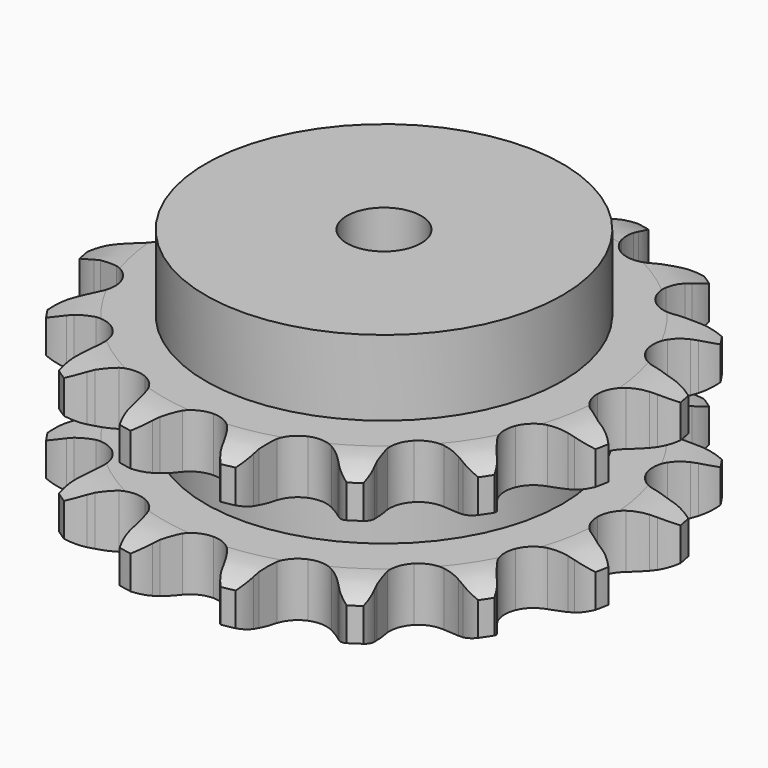
from build123d import *

# Parameters (mm, degrees)
PAD_DEPTH         = 54.6
SKETCH001_R       = 60
PAD001_DEPTH      = 80
SKETCH002_R       = 12.5
POCKET_DEPTH      = 0.001
POCKET_DEPTH_BACK = 80.001


with BuildPart() as part:
    # Sprocket → Pad (new body)
    with BuildSketch(Plane.XY):
        with BuildLine():
            ThreePointArc((-17.844835, 89.712045), (-14.229577, 86.66832), (-11.669376, 82.69595))
            Line((-11.669376, 82.69595), (-10.772508, 80.704978))
            ThreePointArc((-10.772508, 80.704978), (-9.303287, 77.927171), (-7.495255, 75.356987))
            ThreePointArc((-7.495255, 75.356987), (-4.156439, 72.707114), (0, 71.76184))
            ThreePointArc((0, 71.76184), (4.156439, 72.707114), (7.495255, 75.356987))
            ThreePointArc((7.495255, 75.356987), (9.303287, 77.927171), (10.772508, 80.704978))
            Line((10.772508, 80.704978), (11.669376, 82.69595))
            ThreePointArc((11.669376, 82.69595), (14.229577, 86.66832), (17.844835, 89.712045))
            ThreePointArc((17.844835, 89.712045), (20.020115, 85.51651), (20.865273, 80.866773))
            Line((20.865273, 80.866773), (20.931958, 78.684138))
            ThreePointArc((20.931958, 78.684138), (21.226321, 75.555532), (21.913158, 72.489088))
            ThreePointArc((21.913158, 72.489088), (23.983759, 68.763215), (27.462067, 66.299296))
            ThreePointArc((27.462067, 66.299296), (31.663857, 65.582014), (35.762583, 66.752468))
            Line((35.762583, 66.752468), (40.836958, 70.439217))
            ThreePointArc((40.836958, 70.439217), (41.615771, 71.204796), (42.427468, 71.935419))
            ThreePointArc((42.427468, 71.935419), (46.312945, 74.625664), (50.817791, 76.054199))
            ThreePointArc((50.817791, 76.054199), (51.221926, 71.345587), (50.223372, 66.726362))
            Line((50.223372, 66.726362), (49.449724, 64.684351))
            ThreePointArc((49.449724, 64.684351), (48.524414, 61.681248), (47.985491, 58.585382))
            ThreePointArc((47.985491, 58.585382), (48.472647, 54.350739), (50.743284, 50.743284))
            ThreePointArc((50.743284, 50.743284), (54.350739, 48.472647), (58.585382, 47.985491))
            Line((58.585382, 47.985491), (64.684351, 49.449724))
            ThreePointArc((64.684351, 49.449724), (65.696855, 49.858988), (66.726362, 50.223372))
            ThreePointArc((66.726362, 50.223372), (71.345587, 51.221926), (76.054199, 50.817791))
            ThreePointArc((76.054199, 50.817791), (74.625664, 46.312945), (71.935419, 42.427468))
            Line((71.935419, 42.427468), (70.439217, 40.836958))
            ThreePointArc((70.439217, 40.836958), (68.435105, 38.416553), (66.752468, 35.762583))
            ThreePointArc((66.752468, 35.762583), (65.582014, 31.663857), (66.299296, 27.462067))
            ThreePointArc((66.299296, 27.462067), (68.763215, 23.983759), (72.489088, 21.913158))
            Line((72.489088, 21.913158), (78.684138, 20.931958))
            ThreePointArc((78.684138, 20.931958), (79.776188, 20.922601), (80.866773, 20.865273))
            ThreePointArc((80.866773, 20.865273), (85.51651, 20.020115), (89.712045, 17.844835))
            ThreePointArc((89.712045, 17.844835), (86.66832, 14.229577), (82.69595, 11.669376))
            Line((82.69595, 11.669376), (80.704978, 10.772508))
            ThreePointArc((80.704978, 10.772508), (77.927171, 9.303287), (75.356987, 7.495255))
            ThreePointArc((75.356987, 7.495255), (72.707114, 4.156439), (71.76184, 0))
            ThreePointArc((71.76184, 0), (72.707114, -4.156439), (75.356987, -7.495255))
            Line((75.356987, -7.495255), (80.704978, -10.772508))
            ThreePointArc((80.704978, -10.772508), (81.71032, -11.199063), (82.69595, -11.669376))
            ThreePointArc((82.69595, -11.669376), (86.66832, -14.229577), (89.712045, -17.844835))
            ThreePointArc((89.712045, -17.844835), (85.51651, -20.020115), (80.866773, -20.865273))
            Line((80.866773, -20.865273), (78.684138, -20.931958))
            ThreePointArc((78.684138, -20.931958), (75.555532, -21.226321), (72.489088, -21.913158))
            ThreePointArc((72.489088, -21.913158), (68.763215, -23.983759), (66.299296, -27.462067))
            ThreePointArc((66.299296, -27.462067), (65.582014, -31.663857), (66.752468, -35.762583))
            Line((66.752468, -35.762583), (70.439217, -40.836958))
            ThreePointArc((70.439217, -40.836958), (71.204796, -41.615771), (71.935419, -42.427468))
            ThreePointArc((71.935419, -42.427468), (74.625664, -46.312945), (76.054199, -50.817791))
            ThreePointArc((76.054199, -50.817791), (71.345587, -51.221926), (66.726362, -50.223372))
            Line((66.726362, -50.223372), (64.684351, -49.449724))
            ThreePointArc((64.684351, -49.449724), (61.681248, -48.524414), (58.585382, -47.985491))
            ThreePointArc((58.585382, -47.985491), (54.350739, -48.472647), (50.743284, -50.743284))
            ThreePointArc((50.743284, -50.743284), (48.472647, -54.350739), (47.985491, -58.585382))
            Line((47.985491, -58.585382), (49.449724, -64.684351))
            ThreePointArc((49.449724, -64.684351), (49.858988, -65.696855), (50.223372, -66.726362))
            ThreePointArc((50.223372, -66.726362), (51.221926, -71.345587), (50.817791, -76.054199))
            ThreePointArc((50.817791, -76.054199), (46.312945, -74.625664), (42.427468, -71.935419))
            Line((42.427468, -71.935419), (40.836958, -70.439217))
            ThreePointArc((40.836958, -70.439217), (38.416553, -68.435105), (35.762583, -66.752468))
            ThreePointArc((35.762583, -66.752468), (31.663857, -65.582014), (27.462067, -66.299296))
            ThreePointArc((27.462067, -66.299296), (23.983759, -68.763215), (21.913158, -72.489088))
            Line((21.913158, -72.489088), (20.931958, -78.684138))
            ThreePointArc((20.931958, -78.684138), (20.922601, -79.776188), (20.865273, -80.866773))
            ThreePointArc((20.865273, -80.866773), (20.020115, -85.51651), (17.844835, -89.712045))
            ThreePointArc((17.844835, -89.712045), (14.229577, -86.66832), (11.669376, -82.69595))
            Line((11.669376, -82.69595), (10.772508, -80.704978))
            ThreePointArc((10.772508, -80.704978), (9.303287, -77.927171), (7.495255, -75.356987))
            ThreePointArc((7.495255, -75.356987), (4.156439, -72.707114), (0, -71.76184))
            ThreePointArc((0, -71.76184), (-4.156439, -72.707114), (-7.495255, -75.356987))
            Line((-7.495255, -75.356987), (-10.772508, -80.704978))
            ThreePointArc((-10.772508, -80.704978), (-11.199063, -81.71032), (-11.669376, -82.69595))
            ThreePointArc((-11.669376, -82.69595), (-14.229577, -86.66832), (-17.844835, -89.712045))
            ThreePointArc((-17.844835, -89.712045), (-20.020115, -85.51651), (-20.865273, -80.866773))
            Line((-20.865273, -80.866773), (-20.931958, -78.684138))
            ThreePointArc((-20.931958, -78.684138), (-21.226321, -75.555532), (-21.913158, -72.489088))
            ThreePointArc((-21.913158, -72.489088), (-23.983759, -68.763215), (-27.462067, -66.299296))
            ThreePointArc((-27.462067, -66.299296), (-31.663857, -65.582014), (-35.762583, -66.752468))
            Line((-35.762583, -66.752468), (-40.836958, -70.439217))
            ThreePointArc((-40.836958, -70.439217), (-41.615771, -71.204796), (-42.427468, -71.935419))
            ThreePointArc((-42.427468, -71.935419), (-46.312945, -74.625664), (-50.817791, -76.054199))
            ThreePointArc((-50.817791, -76.054199), (-51.221926, -71.345587), (-50.223372, -66.726362))
            Line((-50.223372, -66.726362), (-49.449724, -64.684351))
            ThreePointArc((-49.449724, -64.684351), (-48.524414, -61.681248), (-47.985491, -58.585382))
            ThreePointArc((-47.985491, -58.585382), (-48.472647, -54.350739), (-50.743284, -50.743284))
            ThreePointArc((-50.743284, -50.743284), (-54.350739, -48.472647), (-58.585382, -47.985491))
            Line((-58.585382, -47.985491), (-64.684351, -49.449724))
            ThreePointArc((-64.684351, -49.449724), (-65.696855, -49.858988), (-66.726362, -50.223372))
            ThreePointArc((-66.726362, -50.223372), (-71.345587, -51.221926), (-76.054199, -50.817791))
            ThreePointArc((-76.054199, -50.817791), (-74.625664, -46.312945), (-71.935419, -42.427468))
            Line((-71.935419, -42.427468), (-70.439217, -40.836958))
            ThreePointArc((-70.439217, -40.836958), (-68.435105, -38.416553), (-66.752468, -35.762583))
            ThreePointArc((-66.752468, -35.762583), (-65.582014, -31.663857), (-66.299296, -27.462067))
            ThreePointArc((-66.299296, -27.462067), (-68.763215, -23.983759), (-72.489088, -21.913158))
            Line((-72.489088, -21.913158), (-78.684138, -20.931958))
            ThreePointArc((-78.684138, -20.931958), (-79.776188, -20.922601), (-80.866773, -20.865273))
            ThreePointArc((-80.866773, -20.865273), (-85.51651, -20.020115), (-89.712045, -17.844835))
            ThreePointArc((-89.712045, -17.844835), (-86.66832, -14.229577), (-82.69595, -11.669376))
            Line((-82.69595, -11.669376), (-80.704978, -10.772508))
            ThreePointArc((-80.704978, -10.772508), (-77.927171, -9.303287), (-75.356987, -7.495255))
            ThreePointArc((-75.356987, -7.495255), (-72.707114, -4.156439), (-71.76184, 0))
            ThreePointArc((-71.76184, 0), (-72.707114, 4.156439), (-75.356987, 7.495255))
            Line((-75.356987, 7.495255), (-80.704978, 10.772508))
            ThreePointArc((-80.704978, 10.772508), (-81.71032, 11.199063), (-82.69595, 11.669376))
            ThreePointArc((-82.69595, 11.669376), (-86.66832, 14.229577), (-89.712045, 17.844835))
            ThreePointArc((-89.712045, 17.844835), (-85.51651, 20.020115), (-80.866773, 20.865273))
            Line((-80.866773, 20.865273), (-78.684138, 20.931958))
            ThreePointArc((-78.684138, 20.931958), (-75.555532, 21.226321), (-72.489088, 21.913158))
            ThreePointArc((-72.489088, 21.913158), (-68.763215, 23.983759), (-66.299296, 27.462067))
            ThreePointArc((-66.299296, 27.462067), (-65.582014, 31.663857), (-66.752468, 35.762583))
            Line((-66.752468, 35.762583), (-70.439217, 40.836958))
            ThreePointArc((-70.439217, 40.836958), (-71.204796, 41.615771), (-71.935419, 42.427468))
            ThreePointArc((-71.935419, 42.427468), (-74.625664, 46.312945), (-76.054199, 50.817791))
            ThreePointArc((-76.054199, 50.817791), (-71.345587, 51.221926), (-66.726362, 50.223372))
            Line((-66.726362, 50.223372), (-64.684351, 49.449724))
            ThreePointArc((-64.684351, 49.449724), (-61.681248, 48.524414), (-58.585382, 47.985491))
            ThreePointArc((-58.585382, 47.985491), (-54.350739, 48.472647), (-50.743284, 50.743284))
            ThreePointArc((-50.743284, 50.743284), (-48.472647, 54.350739), (-47.985491, 58.585382))
            Line((-47.985491, 58.585382), (-49.449724, 64.684351))
            ThreePointArc((-49.449724, 64.684351), (-49.858988, 65.696855), (-50.223372, 66.726362))
            ThreePointArc((-50.223372, 66.726362), (-51.221926, 71.345587), (-50.817791, 76.054199))
            ThreePointArc((-50.817791, 76.054199), (-46.312945, 74.625664), (-42.427468, 71.935419))
            Line((-42.427468, 71.935419), (-40.836958, 70.439217))
            ThreePointArc((-40.836958, 70.439217), (-38.416553, 68.435105), (-35.762583, 66.752468))
            ThreePointArc((-35.762583, 66.752468), (-31.663857, 65.582014), (-27.462067, 66.299296))
            ThreePointArc((-27.462067, 66.299296), (-23.983759, 68.763215), (-21.913158, 72.489088))
            Line((-21.913158, 72.489088), (-20.931958, 78.684138))
            ThreePointArc((-20.931958, 78.684138), (-20.922601, 79.776188), (-20.865273, 80.866773))
            ThreePointArc((-20.865273, 80.866773), (-20.020115, 85.51651), (-17.844835, 89.712045))
        make_face()
    extrude(amount=PAD_DEPTH)

    # Sketch → Groove (revolve, cut)
    with BuildSketch(Plane.XZ):
        with BuildLine():
            ThreePointArc((74.398368, 0), (81.881683, 0.887302), (88.95, 3.5))
            Line((88.95, 3.5), (88.95, 14.7))
            ThreePointArc((88.95, 14.7), (81.881683, 17.312698), (74.398368, 18.2))
            Line((60, 18.2), (74.398368, 18.2))
            Line((60, 36.4), (60, 18.2))
            Line((74.398368, 36.4), (60, 36.4))
            ThreePointArc((74.398368, 36.4), (81.881683, 37.287302), (88.95, 39.9))
            Line((88.95, 39.9), (88.95, 51.1))
            ThreePointArc((88.95, 51.1), (81.881683, 53.712698), (74.398368, 54.6))
            Line((74.398368, 54.6), (98.95, 54.6))
            Line((98.95, 54.6), (98.95, 0))
            Line((74.398368, 0), (98.95, 0))
        make_face()
    revolve(axis=Axis((0, 0, 0), (0, 0, 1)), mode=Mode.SUBTRACT)

    # Sketch001 → Pad001 (join)
    with BuildSketch(Plane.XY):
        Circle(SKETCH001_R)
    extrude(amount=PAD001_DEPTH)

    # Sketch002 → Pocket (cut, two sides)
    with BuildSketch(Plane.XY) as pocket_sk:
        Circle(SKETCH002_R)
    extrude(amount=-POCKET_DEPTH, mode=Mode.SUBTRACT)
    extrude(pocket_sk.sketch, amount=POCKET_DEPTH_BACK, mode=Mode.SUBTRACT)


solid = part.part
